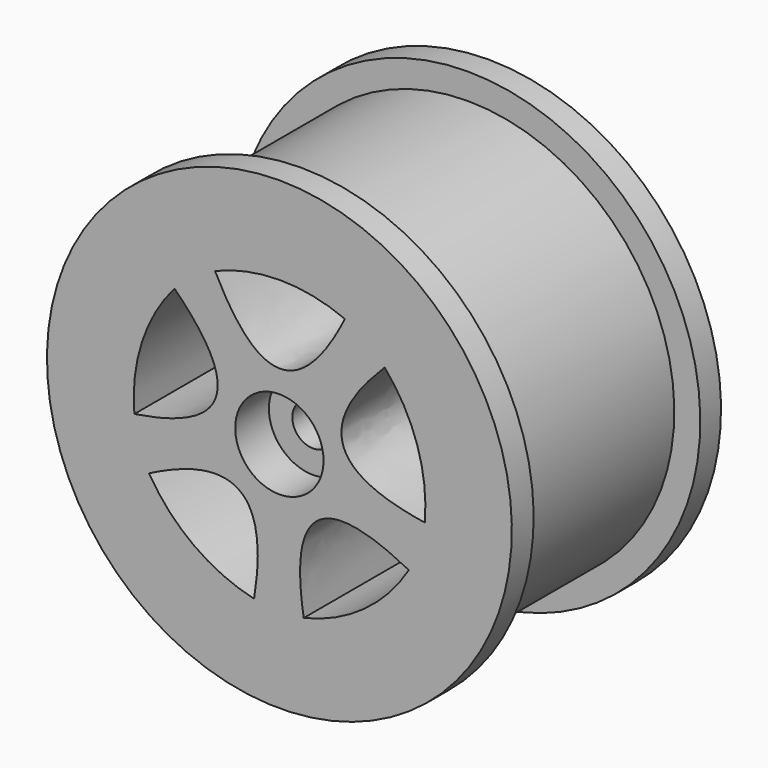
from build123d import *

# Parameters (mm, degrees)
POCKET001_DEPTH       = 54.489273
POCKET001_DEPTH_BACK  = 86.48894
POLARPATTERN001_COUNT = 5


with BuildPart() as part:
    # Sketch024 → Revolution001 (revolve)
    with BuildSketch(Plane.YZ):
        with BuildLine():
            Line((-31.999667, 8.950126), (-30.949667, 8.950126))
            Line((-30.949667, 7.950126), (-30.949667, 8.950126))
            Line((-22.929667, 7.950126), (-30.949667, 7.950126))
            Line((-22.929667, 8.950126), (-22.929667, 7.950126))
            Line((-22.929667, 8.950126), (-21.929667, 8.950126))
            Line((-21.929667, 8.950126), (-21.929667, 7.950126))
            ThreePointArc((-22.929667, 6.950126), (-22.225454, 7.245913), (-21.929667, 7.950126))
            Line((-22.929667, 6.950126), (-24.999667, 6.950126))
            ThreePointArc((-24.999667, 6.950126), (-25.699738, 6.655996), (-25.979667, 5.950126))
            Line((-25.979667, 2.4), (-25.979667, 5.950126))
            Line((-28.779667, 2.4), (-25.979667, 2.4))
            Line((-28.779667, 0.8), (-28.779667, 2.4))
            Line((-30.379667, 0.8), (-28.779667, 0.8))
            Line((-30.379667, 1.7), (-30.379667, 0.8))
            Line((-31.999667, 1.7), (-30.379667, 1.7))
            Line((-31.999667, 8.950126), (-31.999667, 1.7))
        make_face()
    revolve(axis=Axis((0, 0, 0), (0, 1, 0)))

    # Sketch025 → Pocket001 (cut, two sides)
    with BuildSketch(Plane(origin=(-5.2, 0, 0), x_dir=(1, 0, 0), z_dir=(0, -1, 0))) as pocket001_sk:
        with BuildLine():
            add(Edge.make_bspline(
                [(7.722002, 5.067158), (5.222002, 0.076099), (2.722002, 5.067158)],
                knots=[-2.5, -2.5, -2.5, 2.5, 2.5, 2.5], degree=2))
            ThreePointArc((2.722002, 5.067158), (5.222002, 5.573306), (7.722002, 5.067158))
        make_face()
    pocket001 = extrude(amount=-POCKET001_DEPTH, mode=Mode.SUBTRACT) + extrude(pocket001_sk.sketch, amount=POCKET001_DEPTH_BACK, mode=Mode.SUBTRACT)

    # PolarPattern001: Pocket001 ×5 about axis
    polarpattern001_axis = Axis((0, 0, 0), (0, 1, 0))
    for i in range(1, POLARPATTERN001_COUNT):
        add(pocket001.rotate(polarpattern001_axis, i * 360 / POLARPATTERN001_COUNT), mode=Mode.SUBTRACT)


with BuildPart() as part_1:
    # Body021 placement: moved
    add(part.part.moved(Location((54.7, 7, -10.5))))


solid = part_1.part
